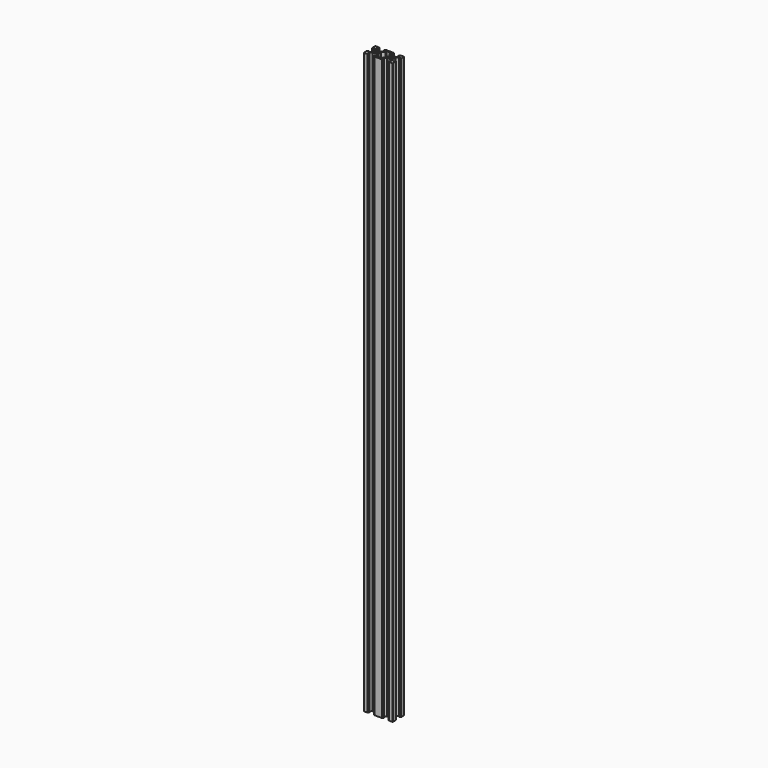
from build123d import *

# Parameters (mm, degrees)
SKETCH_R  = 2.1
PAD_DEPTH = 800


with BuildPart() as part:
    # Sketch → Pad (new body)
    with BuildSketch(Plane.XY):
        with BuildLine():
            Line((-10, 4.58), (-10, 9.5))
            ThreePointArc((-9.5, 10), (-9.853553, 9.853553), (-10, 9.5))
            Line((-9.5, 10), (-4.58, 10))
            Line((-4.58, 10), (-3.125, 8.545))
            Line((-3.125, 8.545), (-3.125, 8.2))
            Line((-5.5, 8.2), (-3.125, 8.2))
            Line((-5.5, 8.2), (-5.5, 6.56066))
            Line((-5.5, 6.56066), (-2.83934, 3.9))
            Line((-0.125, 3.9), (-2.83934, 3.9))
            ThreePointArc((-0.125, 3.9), (0, 3.775), (0.125, 3.9))
            Line((0.125, 3.9), (2.83934, 3.9))
            Line((2.83934, 3.9), (5.5, 6.56066))
            Line((5.5, 6.56066), (5.5, 8.2))
            Line((5.5, 8.2), (3.125, 8.2))
            Line((3.125, 8.2), (3.125, 8.545))
            Line((3.125, 8.545), (4.58, 10))
            Line((4.58, 10), (15.42, 10))
            Line((15.42, 10), (16.875, 8.545))
            Line((16.875, 8.545), (16.875, 8.2))
            Line((16.875, 8.2), (14.5, 8.2))
            Line((14.5, 8.2), (14.5, 6.56066))
            Line((14.5, 6.56066), (17.16066, 3.9))
            Line((17.16066, 3.9), (19.875, 3.9))
            ThreePointArc((19.875, 3.9), (20, 3.775), (20.125, 3.9))
            Line((20.125, 3.9), (22.83934, 3.9))
            Line((22.83934, 3.9), (25.5, 6.56066))
            Line((25.5, 6.56066), (25.5, 8.2))
            Line((25.5, 8.2), (23.125, 8.2))
            Line((23.125, 8.2), (23.125, 8.545))
            Line((23.125, 8.545), (24.58, 10))
            Line((24.58, 10), (29.5, 10))
            ThreePointArc((30, 9.5), (29.853554, 9.853554), (29.5, 10))
            Line((30, 9.5), (30, 4.58))
            Line((30, 4.58), (28.545, 3.125))
            Line((28.545, 3.125), (28.2, 3.125))
            Line((28.2, 3.125), (28.2, 5.5))
            Line((28.2, 5.5), (26.560661, 5.5))
            Line((26.560661, 5.5), (23.9, 2.83934))
            Line((23.9, 2.83934), (23.9, 0.125))
            ThreePointArc((23.9, 0.125), (23.775, 2e-06), (23.899997, -0.125))
            Line((23.899997, -2.83934), (23.899997, -0.125))
            Line((26.560658, -5.5), (23.899997, -2.83934))
            Line((28.199997, -5.5), (26.560658, -5.5))
            Line((28.199997, -3.125), (28.199997, -5.5))
            Line((28.544997, -3.125), (28.199997, -3.125))
            Line((29.999997, -4.58), (28.544997, -3.125))
            Line((29.999997, -9.5), (29.999997, -4.58))
            ThreePointArc((29.5, -10), (29.853552, -9.853552), (29.999997, -9.5))
            Line((24.58, -10), (29.5, -10))
            Line((23.125, -8.545), (24.58, -10))
            Line((23.125, -8.2), (23.125, -8.545))
            Line((25.5, -8.2), (23.125, -8.2))
            Line((25.5, -6.56066), (25.5, -8.2))
            Line((22.83934, -3.9), (25.5, -6.56066))
            Line((20.125, -3.9), (22.83934, -3.9))
            ThreePointArc((20.125, -3.9), (20, -3.775), (19.875, -3.9))
            Line((17.16066, -3.9), (19.875, -3.9))
            Line((14.5, -6.56066), (17.16066, -3.9))
            Line((14.5, -8.2), (14.5, -6.56066))
            Line((16.875, -8.2), (14.5, -8.2))
            Line((16.875, -8.545), (16.875, -8.2))
            Line((15.42, -10), (16.875, -8.545))
            Line((4.58, -10), (15.42, -10))
            Line((4.58, -10), (3.125, -8.545))
            Line((3.125, -8.545), (3.125, -8.2))
            Line((3.125, -8.2), (5.5, -8.2))
            Line((5.5, -8.2), (5.5, -6.56066))
            Line((2.83934, -3.9), (5.5, -6.56066))
            Line((0.125, -3.9), (2.83934, -3.9))
            ThreePointArc((0.125, -3.9), (0, -3.775), (-0.125, -3.9))
            Line((-0.125, -3.9), (-2.83934, -3.9))
            Line((-2.83934, -3.9), (-5.5, -6.56066))
            Line((-5.5, -6.56066), (-5.5, -8.2))
            Line((-5.5, -8.2), (-3.125, -8.2))
            Line((-3.125, -8.545), (-3.125, -8.2))
            Line((-4.58, -10), (-3.125, -8.545))
            Line((-9.5, -10), (-4.58, -10))
            ThreePointArc((-10, -9.5), (-9.853553, -9.853553), (-9.5, -10))
            Line((-10, -4.58), (-10, -9.5))
            Line((-8.545, -3.125), (-10, -4.58))
            Line((-8.2, -3.125), (-8.545, -3.125))
            Line((-8.2, -5.5), (-8.2, -3.125))
            Line((-6.56066, -5.5), (-8.2, -5.5))
            Line((-3.9, -2.83934), (-6.56066, -5.5))
            Line((-3.9, -0.125), (-3.9, -2.83934))
            ThreePointArc((-3.9, -0.125), (-3.775, 0), (-3.9, 0.125))
            Line((-3.9, 2.83934), (-3.9, 0.125))
            Line((-6.56066, 5.5), (-3.9, 2.83934))
            Line((-8.2, 5.5), (-6.56066, 5.5))
            Line((-8.2, 5.5), (-8.2, 3.125))
            Line((-8.545, 3.125), (-8.2, 3.125))
            Line((-10, 4.58), (-8.545, 3.125))
        make_face()
        Circle(SKETCH_R, mode=Mode.SUBTRACT)
        with Locations((20, 0)):
            Circle(SKETCH_R, mode=Mode.SUBTRACT)
        with BuildLine():
            Line((7, 5.93934), (3.9, 2.83934))
            Line((3.9, 2.83934), (3.9, 0.125))
            ThreePointArc((3.9, 0.125), (3.775, 0), (3.9, -0.125))
            Line((3.9, -0.125), (3.9, -2.83934))
            Line((3.9, -2.83934), (7, -5.93934))
            Line((7, -5.93934), (7, -8.2))
            Line((7, -8.2), (13, -8.2))
            Line((13, -8.2), (13, -5.93934))
            Line((13, -5.93934), (16.1, -2.83934))
            Line((16.1, -2.83934), (16.1, -0.125))
            ThreePointArc((16.1, -0.125), (16.224999, 0), (16.1, 0.125))
            Line((16.1, 2.83934), (16.1, 0.125))
            Line((13, 5.93934), (16.1, 2.83934))
            Line((13, 8.2), (13, 5.93934))
            Line((7, 8.2), (13, 8.2))
            Line((7, 5.93934), (7, 8.2))
        make_face(mode=Mode.SUBTRACT)
    extrude(amount=PAD_DEPTH)


solid = part.part
